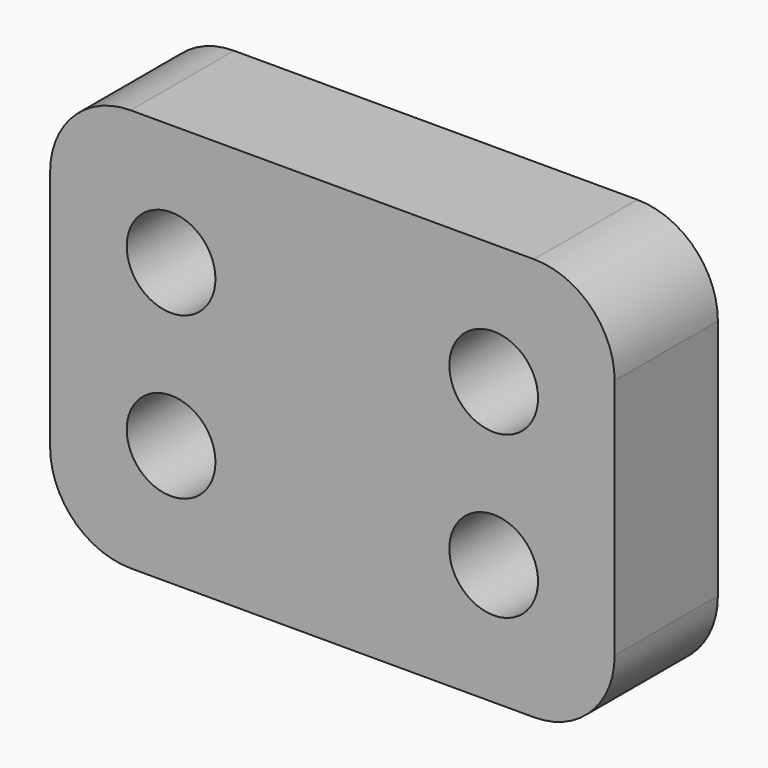
from build123d import *

# Parameters (mm, degrees)
F0_W     = 35
F0_H     = 25
F0_R     = 2.75
F1_DEPTH = 8
F2_R     = 5


with BuildPart() as f1:
    # F0 (on Front) → F1 (new body)
    with BuildSketch(Plane.XZ):
        Rectangle(F0_W, F0_H)
        with Locations((-10, -5)):
            Circle(F0_R, mode=Mode.SUBTRACT)
        with Locations((10, -5)):
            Circle(F0_R, mode=Mode.SUBTRACT)
        with Locations((-10, 5)):
            Circle(F0_R, mode=Mode.SUBTRACT)
        with Locations((10, 5)):
            Circle(F0_R, mode=Mode.SUBTRACT)
    extrude(amount=F1_DEPTH)

    # F2
    f2_edges = [f1.edges().sort_by_distance(p)[0] for p in [
        (17.5, -4, -12.5),
        (17.5, -4, 12.5),
        (-17.5, -4, -12.5),
        (-17.5, -4, 12.5),
    ]]
    fillet(f2_edges, radius=F2_R)


solid = f1.part
